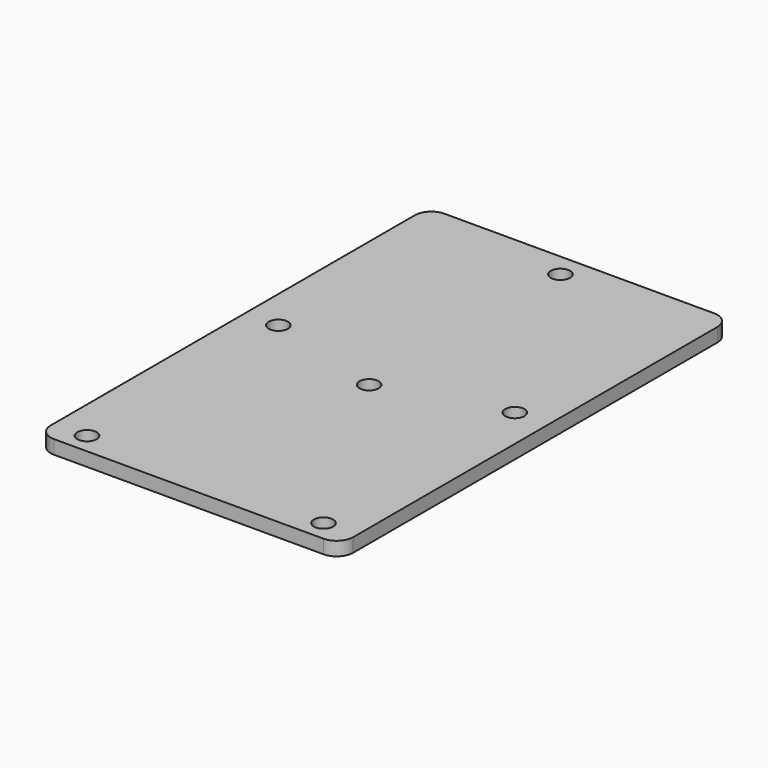
from build123d import *

# Parameters (mm, degrees)
F0_R     = 7
F1_DEPTH = 10


with BuildPart() as f1:
    # F0 (on Top) → F1 (new body)
    with BuildSketch(Plane.XY):
        with BuildLine():
            ThreePointArc((0, 12), (3.514719, 3.514719), (12, 0))
            Line((12, 0), (208, 0))
            ThreePointArc((208, 0), (216.485281, 3.514719), (220, 12))
            Line((220, 12), (220, 343))
            ThreePointArc((220, 343), (216.485281, 351.485281), (208, 355))
            Line((208, 355), (12, 355))
            ThreePointArc((12, 355), (3.514719, 351.485281), (0, 343))
            Line((0, 343), (0, 12))
        make_face()
        with Locations((24, 15)):
            Circle(F0_R, mode=Mode.SUBTRACT)
        with Locations((196, 15)):
            Circle(F0_R, mode=Mode.SUBTRACT)
        with Locations((110, 163.956369)):
            Circle(F0_R, mode=Mode.SUBTRACT)
        with Locations((24, 188.956369)):
            Circle(F0_R, mode=Mode.SUBTRACT)
        with Locations((196, 188.956369)):
            Circle(F0_R, mode=Mode.SUBTRACT)
        with Locations((110, 337.912739)):
            Circle(F0_R, mode=Mode.SUBTRACT)
    extrude(amount=F1_DEPTH)


solid = f1.part
